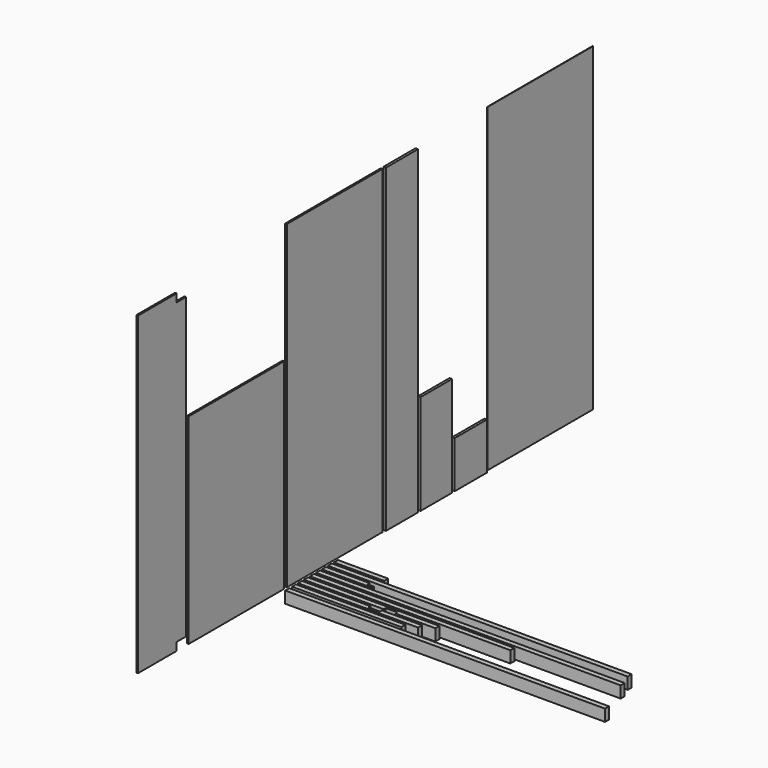
from build123d import *

# Parameters (mm, degrees)
F0_W      = 38.1
F0_H      = 88.9
F1_DEPTH  = 2432.05
F2_W      = 38.1
F2_H      = 88.9
F3_DEPTH  = 831.85
F4_W      = 38.1
F4_H      = 88.9
F5_DEPTH  = 914.4
F6_DEPTH  = 1000.125
F7_W      = 88.9
F7_H      = 19.05
F8_DEPTH  = 88.9
F9_W      = 88.9
F9_H      = 19.05
F10_DEPTH = 88.9
F4_W_2    = 908.05
F4_H_2    = 2432.05
F4_H_3    = 1524
F11_DEPTH = 12.7
F4_W_3    = 304.8
F4_W_4    = 298.45
F4_H_4    = 762
F4_H_5    = 355.6
F12_DEPTH = 19.05
F13_DEPTH = 1524
F14_DEPTH = 2317.75
F15_DEPTH = 381
F16_DEPTH = 2279.65
F17_W     = 50.8
F17_H     = 19.05
F18_DEPTH = 88.9
F4_W_5    = 1003.3
F19_DEPTH = 3.175


with BuildPart() as f1:
    # F0 (on Right) → F1 (new body)
    with BuildSketch(Plane.YZ):
        with Locations((19.05, 44.45)):
            Rectangle(F0_W, F0_H)
    extrude(amount=F1_DEPTH)


with BuildPart() as f3:
    # F2 (on Right) → F3 (new body)
    with BuildSketch(Plane.YZ):
        with Locations((82.55, 44.45)):
            Rectangle(F2_W, F2_H)
    extrude(amount=F3_DEPTH)


with BuildPart() as f5:
    # F4 (on Right) → F5 (new body)
    with BuildSketch(Plane.YZ):
        with Locations((139.7, 44.45)):
            Rectangle(F4_W, F4_H)
    extrude(amount=F5_DEPTH)

    # F9 (on face) → F10 (cut, through all)
    with BuildSketch(Plane.XY.offset(88.9)):
        with Locations((565.15, 149.225)):
            Rectangle(F9_W, F9_H)
    extrude(amount=-F10_DEPTH, mode=Mode.SUBTRACT)


with BuildPart() as f6:
    # F4 (on Right) → F6 (new body)
    with BuildSketch(Plane.YZ):
        with Locations((196.85, 44.45)):
            Rectangle(F4_W, F4_H)
    extrude(amount=F6_DEPTH)

    # F7 (on face) → F8 (cut, through all)
    with BuildSketch(Plane.XY.offset(88.9)):
        with Locations((650.875, 187.325)):
            Rectangle(F7_W, F7_H)
    extrude(amount=-F8_DEPTH, mode=Mode.SUBTRACT)


with BuildPart() as f11:
    # F4 (on Right) → F11 (new body)
    with BuildSketch(Plane.YZ):
        with Locations((454.025, 1330.325)):
            Rectangle(F4_W_2, F4_H_2)
        with Locations((-479.425, 876.3)):
            Rectangle(F4_W_2, F4_H_3)
        Polygon((-1416.05, 114.3), (-1047.75, 114.3), (-1047.75, 174.625), (-958.85, 174.625), (-958.85, 2447.925), (-1047.75, 2447.925), (-1047.75, 2508.25), (-1416.05, 2508.25), align=None)
    extrude(amount=F11_DEPTH)


with BuildPart() as f12:
    # F4 (on Right) → F12 (new body)
    with BuildSketch(Plane.YZ):
        with Locations((1085.85, 1330.325)):
            Rectangle(F4_W_3, F4_H_2)
        with Locations((1412.875, 495.3)):
            Rectangle(F4_W_4, F4_H_4)
        with Locations((1739.9, 292.1)):
            Rectangle(F4_W_3, F4_H_5)
    extrude(amount=F12_DEPTH)


with BuildPart() as f13:
    # F4 (on Right) → F13 (new body)
    with BuildSketch(Plane.YZ):
        with Locations((254, 44.45)):
            Rectangle(F4_W, F4_H)
    extrude(amount=F13_DEPTH)


with BuildPart() as f14:
    # F4 (on Right) → F14 (new body)
    with BuildSketch(Plane.YZ):
        with Locations((311.15, 44.45)):
            Rectangle(F4_W, F4_H)
    extrude(amount=F14_DEPTH)


with BuildPart() as f15:
    # F4 (on Right) → F15 (new body)
    with BuildSketch(Plane.YZ):
        with Locations((368.3, 44.45)):
            Rectangle(F4_W, F4_H)
        with Locations((482.6, 44.45)):
            Rectangle(F4_W, F4_H)
    extrude(amount=F15_DEPTH)

    # F17 (on face) → F18 (cut, through all)
    with BuildSketch(Plane(origin=(0, 0, 0), x_dir=(1, 0, 0), z_dir=(0, 0, -1))):
        with Locations((355.6, -377.825)):
            Rectangle(F17_W, F17_H)
    extrude(amount=-F18_DEPTH, mode=Mode.SUBTRACT)


with BuildPart() as f16:
    # F4 (on Right) → F16 (new body)
    with BuildSketch(Plane.YZ):
        with Locations((425.45, 44.45)):
            Rectangle(F4_W, F4_H)
    extrude(amount=F16_DEPTH)


with BuildPart() as f19:
    # F4 (on Right) → F19 (new body)
    with BuildSketch(Plane.YZ):
        with Locations((2419.35, 1330.325)):
            Rectangle(F4_W_5, F4_H_2)
    extrude(amount=F19_DEPTH)


solid = Compound([f1.part, f3.part, f5.part, f6.part, f11.part, f12.part, f13.part, f14.part, f15.part, f16.part, f19.part])
